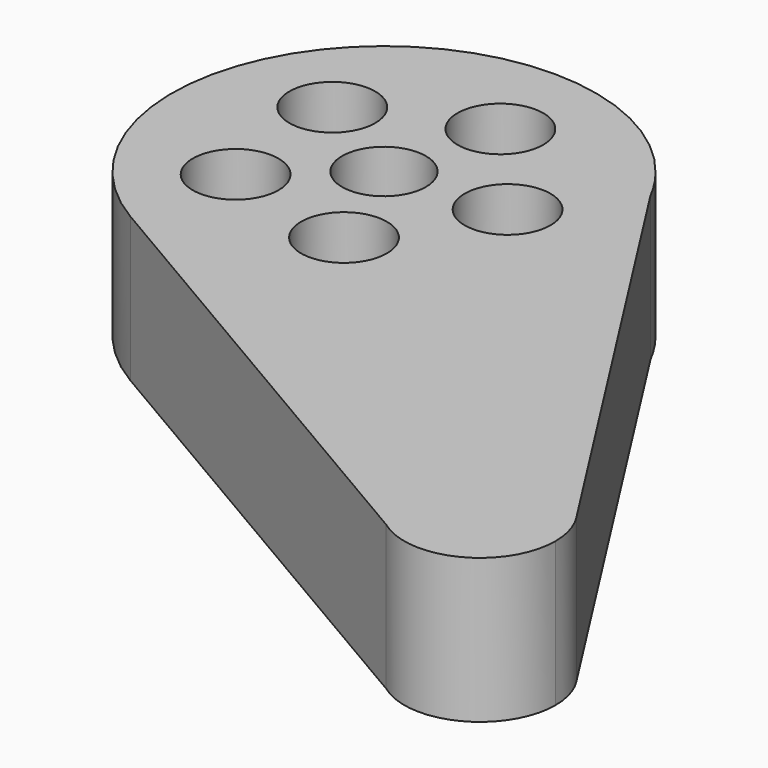
from build123d import *

# Parameters (mm, degrees)
F0_R     = 7.546295
F0_R_2   = 7.36784
F1_DEPTH = 25.4


with BuildPart() as f1:
    # F0 (on Top) → F1 (new body)
    with BuildSketch(Plane.XY):
        with BuildLine():
            Line((-13.68802, 70.15095), (-17.31057, 75.817196))
            ThreePointArc((-17.31057, 75.817196), (-74.82721, 77.594356), (-65.662381, 20.784778))
            ThreePointArc((-65.662381, 20.784778), (-28.253611, 20.604255), (-9.49692, 52.971448))
            ThreePointArc((-9.49692, 52.971448), (-10.559838, 61.813119), (-13.68802, 70.15095))
        make_face()
        with Locations((-62.1845, 39.586411)):
            Circle(F0_R, mode=Mode.SUBTRACT)
        with Locations((-38.825692, 34.205843)):
            Circle(F0_R, mode=Mode.SUBTRACT)
        with Locations((-46.802238, 52.971448)):
            Circle(F0_R_2, mode=Mode.SUBTRACT)
        with Locations((-26.490199, 54.758703)):
            Circle(F0_R, mode=Mode.SUBTRACT)
        with Locations((-64.285544, 63.464645)):
            Circle(F0_R, mode=Mode.SUBTRACT)
        with Locations((-42.225253, 72.841637)):
            Circle(F0_R, mode=Mode.SUBTRACT)
        with BuildLine():
            ThreePointArc((-13.68802, 70.15095), (-15.371348, 73.065872), (-17.31057, 75.817196))
            Line((-17.31057, 75.817196), (-13.68802, 70.15095))
        make_face()
        with BuildLine():
            ThreePointArc((-9.49692, 52.971448), (-28.253611, 20.604255), (-65.662381, 20.784778))
            Line((-65.662381, 20.784778), (19.064318, -28.861789))
            ThreePointArc((19.064318, -28.861789), (17.819941, -8.476765), (38.103471, -10.859217))
            Line((38.103471, -10.859217), (-13.68802, 70.15095))
            ThreePointArc((-13.68802, 70.15095), (-10.559838, 61.813119), (-9.49692, 52.971448))
        make_face()
        with BuildLine():
            ThreePointArc((38.103471, -10.859217), (17.819941, -8.476765), (19.064318, -28.861789))
            ThreePointArc((19.064318, -28.861789), (32.966269, -30.031115), (40.276969, -18.148976))
            ThreePointArc((40.276969, -18.148976), (39.722027, -14.345534), (38.103471, -10.859217))
        make_face()
    extrude(amount=F1_DEPTH)


solid = f1.part
